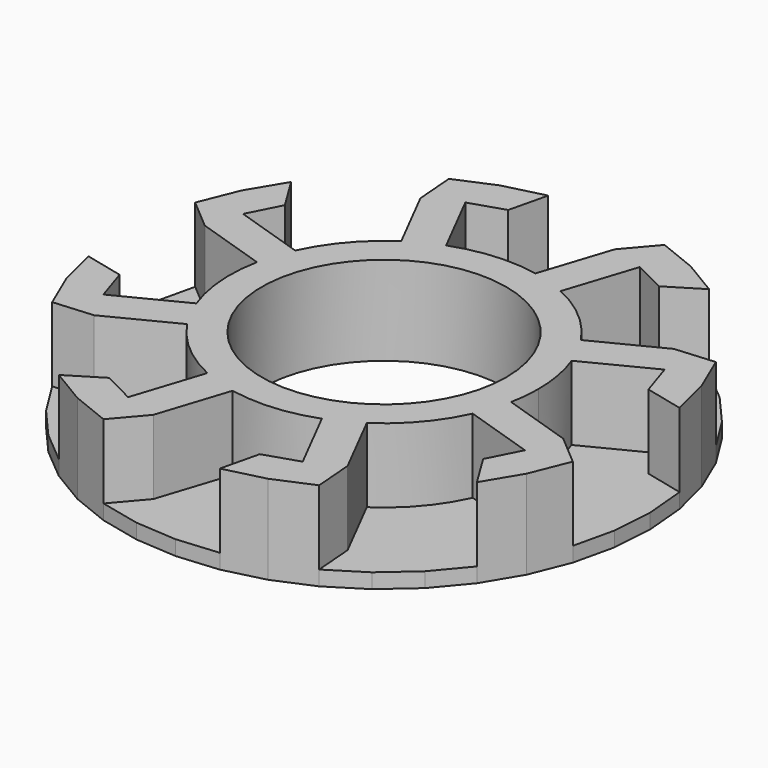
from build123d import *

# Parameters (mm, degrees)
F0_R      = 16.5
F17_DEPTH = 12
F18_DEPTH = 2


with BuildPart() as f17:
    # F0 (on Top) → F17 (new body)
    with BuildSketch(Plane.XY):
        with BuildLine():
            ThreePointArc((18.917614, -8.685167), (19.797247, -6.432516), (20.409685, -4.093046))
            ThreePointArc((20.409685, -4.093046), (20.714215, -2.056585), (20.816058, 0))
            ThreePointArc((20.816058, 0), (20.489002, 3.675464), (19.518114, 7.235432))
            ThreePointArc((19.518114, 7.235432), (18.547243, 9.450292), (17.326047, 11.537605))
            ThreePointArc((17.326047, 11.537605), (13.518948, 15.828654), (8.685167, 18.917614))
            ThreePointArc((8.685167, 18.917614), (6.432516, 19.797247), (4.093046, 20.409685))
            ThreePointArc((4.093046, 20.409685), (-1.633209, 20.751889), (-7.235432, 19.518114))
            ThreePointArc((-7.235432, 19.518114), (-9.450292, 18.547243), (-11.537605, 17.326047))
            ThreePointArc((-11.537605, 17.326047), (-15.828654, 13.518948), (-18.917614, 8.685167))
            ThreePointArc((-18.917614, 8.685167), (-19.797247, 6.432516), (-20.409685, 4.093046))
            ThreePointArc((-20.409685, 4.093046), (-20.751889, -1.633209), (-19.518114, -7.235432))
            ThreePointArc((-19.518114, -7.235432), (-18.547243, -9.450292), (-17.326047, -11.537605))
            ThreePointArc((-17.326047, -11.537605), (-13.518948, -15.828654), (-8.685167, -18.917614))
            ThreePointArc((-8.685167, -18.917614), (-6.432516, -19.797247), (-4.093046, -20.409685))
            ThreePointArc((-4.093046, -20.409685), (1.633209, -20.751889), (7.235432, -19.518114))
            ThreePointArc((7.235432, -19.518114), (9.450292, -18.547243), (11.537605, -17.326047))
            ThreePointArc((11.537605, -17.326047), (15.828654, -13.518948), (18.917614, -8.685167))
        make_face()
        Circle(F0_R, mode=Mode.SUBTRACT)
        with BuildLine():
            ThreePointArc((4.093046, 20.409685), (6.432516, 19.797247), (8.685167, 18.917614))
            Line((8.685167, 18.917614), (11.775337, 28.428179))
            Line((11.775337, 28.428179), (7.183216, 29.92025))
            Line((7.183216, 29.92025), (4.093046, 20.409685))
        make_face()
        Polygon((11.775337, 28.428179), (16.07751, 26.236113), (20.629834, 29.030011), (15.834552, 31.89982), (10.649371, 33.98415), (7.183216, 29.92025), align=None)
        Polygon((-16.07751, 26.236113), (-11.775337, 28.428179), (-7.183216, 29.92025), (-5.939822, 35.114813), (-11.35986, 33.753298), (-16.50018, 31.560666), align=None)
        with BuildLine():
            ThreePointArc((-11.537605, 17.326047), (-9.450292, 18.547243), (-7.235432, 19.518114))
            Line((-7.235432, 19.518114), (-11.775337, 28.428179))
            Line((-11.775337, 28.428179), (-16.07751, 26.236113))
            Line((-16.07751, 26.236113), (-11.537605, 17.326047))
        make_face()
        Polygon((-29.92025, 7.183216), (-28.428179, 11.775337), (-26.236113, 16.07751), (-29.030011, 20.629834), (-31.89982, 15.834552), (-33.98415, 10.649371), align=None)
        with BuildLine():
            ThreePointArc((-20.409685, 4.093046), (-19.797247, 6.432516), (-18.917614, 8.685167))
            Line((-18.917614, 8.685167), (-28.428179, 11.775337))
            Line((-28.428179, 11.775337), (-29.92025, 7.183216))
            Line((-29.92025, 7.183216), (-20.409685, 4.093046))
        make_face()
        Polygon((-31.560666, -16.50018), (-26.236113, -16.07751), (-28.428179, -11.775337), (-29.92025, -7.183216), (-35.114813, -5.939822), (-33.753298, -11.35986), align=None)
        with BuildLine():
            Line((-26.236113, -16.07751), (-17.326047, -11.537605))
            ThreePointArc((-17.326047, -11.537605), (-18.547243, -9.450292), (-19.518114, -7.235432))
            Line((-19.518114, -7.235432), (-28.428179, -11.775337))
            Line((-28.428179, -11.775337), (-26.236113, -16.07751))
        make_face()
        Polygon((-10.649371, -33.98415), (-7.183216, -29.92025), (-11.775337, -28.428179), (-16.07751, -26.236113), (-20.629834, -29.030011), (-15.834552, -31.89982), align=None)
        with BuildLine():
            Line((-7.183216, -29.92025), (-4.093046, -20.409685))
            ThreePointArc((-4.093046, -20.409685), (-6.432516, -19.797247), (-8.685167, -18.917614))
            Line((-8.685167, -18.917614), (-11.775337, -28.428179))
            Line((-11.775337, -28.428179), (-7.183216, -29.92025))
        make_face()
        Polygon((16.50018, -31.560666), (16.07751, -26.236113), (11.775337, -28.428179), (7.183216, -29.92025), (5.939822, -35.114813), (11.35986, -33.753298), align=None)
        with BuildLine():
            Line((16.07751, -26.236113), (11.537605, -17.326047))
            ThreePointArc((11.537605, -17.326047), (9.450292, -18.547243), (7.235432, -19.518114))
            Line((7.235432, -19.518114), (11.775337, -28.428179))
            Line((11.775337, -28.428179), (16.07751, -26.236113))
        make_face()
        Polygon((33.98415, -10.649371), (29.92025, -7.183216), (28.428179, -11.775337), (26.236113, -16.07751), (29.030011, -20.629834), (31.89982, -15.834552), align=None)
        with BuildLine():
            Line((28.428179, -11.775337), (29.92025, -7.183216))
            Line((29.92025, -7.183216), (20.409685, -4.093046))
            ThreePointArc((20.409685, -4.093046), (19.797247, -6.432516), (18.917614, -8.685167))
            Line((18.917614, -8.685167), (28.428179, -11.775337))
        make_face()
        Polygon((28.428179, 11.775337), (29.92025, 7.183216), (35.114813, 5.939822), (33.753298, 11.35986), (31.560666, 16.50018), (26.236113, 16.07751), align=None)
        with BuildLine():
            Line((19.518114, 7.235432), (28.428179, 11.775337))
            Line((28.428179, 11.775337), (26.236113, 16.07751))
            Line((26.236113, 16.07751), (17.326047, 11.537605))
            ThreePointArc((17.326047, 11.537605), (18.547243, 9.450292), (19.518114, 7.235432))
        make_face()
    extrude(amount=F17_DEPTH)

    # F9 (on face) + F10 (on face) + F11 (on face) + F7 (on face) + F8 (on face) + F1 (on face) + F2 (on face) + F16 (on face) + F15 (on face) + F3 (on face) + F14 (on face) + F4 (on face) + F13 (on face) + F5 (on face) + F12 (on face) + F6 (on face) → F18 (join)
    with BuildSketch(Plane.XY):
        Polygon((-23.398026, 19.983802), (-19.983802, 23.398026), (-16.07751, 26.236113), (-16.50018, 31.560666), (-21.234212, 28.590905), (-25.445386, 24.917141), (-29.030011, 20.629834), (-26.236113, 16.07751), align=None)
    with BuildSketch(Plane.XY):
        Polygon((-2.414221, 30.675584), (2.414221, 30.675584), (7.183216, 29.92025), (10.649371, 33.98415), (5.201968, 35.231677), (-0.373526, 35.611684), (-5.939822, 35.114813), (-7.183216, 29.92025), align=None)
    with BuildSketch(Plane.XY):
        Polygon((19.983802, 23.398026), (23.398026, 19.983802), (26.236113, 16.07751), (31.560666, 16.50018), (28.590905, 21.234212), (24.917141, 25.445386), (20.629834, 29.030011), (16.07751, 26.236113), align=None)
    with BuildSketch(Plane.XY):
        with BuildLine():
            ThreePointArc((8.685167, 18.917614), (13.518948, 15.828654), (17.326047, 11.537605))
            Line((17.326047, 11.537605), (26.236113, 16.07751))
            Line((26.236113, 16.07751), (23.398026, 19.983802))
            Line((23.398026, 19.983802), (19.983802, 23.398026))
            Line((19.983802, 23.398026), (16.07751, 26.236113))
            Line((16.07751, 26.236113), (11.775337, 28.428179))
            Line((11.775337, 28.428179), (8.685167, 18.917614))
        make_face()
    with BuildSketch(Plane.XY):
        with BuildLine():
            Line((-11.775337, 28.428179), (-7.235432, 19.518114))
            ThreePointArc((-7.235432, 19.518114), (-1.633209, 20.751889), (4.093046, 20.409685))
            Line((4.093046, 20.409685), (7.183216, 29.92025))
            Line((7.183216, 29.92025), (2.414221, 30.675584))
            Line((2.414221, 30.675584), (-2.414221, 30.675584))
            Line((-2.414221, 30.675584), (-7.183216, 29.92025))
            Line((-7.183216, 29.92025), (-11.775337, 28.428179))
        make_face()
    with BuildSketch(Plane.XY):
        with BuildLine():
            Line((-28.428179, 11.775337), (-18.917614, 8.685167))
            ThreePointArc((-18.917614, 8.685167), (-15.828654, 13.518948), (-11.537605, 17.326047))
            Line((-11.537605, 17.326047), (-16.07751, 26.236113))
            Line((-16.07751, 26.236113), (-19.983802, 23.398026))
            Line((-19.983802, 23.398026), (-23.398026, 19.983802))
            Line((-23.398026, 19.983802), (-26.236113, 16.07751))
            Line((-26.236113, 16.07751), (-28.428179, 11.775337))
        make_face()
    with BuildSketch(Plane.XY):
        with BuildLine():
            Line((-29.92025, -7.183216), (-28.428179, -11.775337))
            Line((-28.428179, -11.775337), (-19.518114, -7.235432))
            ThreePointArc((-19.518114, -7.235432), (-20.751889, -1.633209), (-20.409685, 4.093046))
            Line((-20.409685, 4.093046), (-29.92025, 7.183216))
            Line((-29.92025, 7.183216), (-30.675584, 2.414221))
            Line((-30.675584, 2.414221), (-30.675584, -2.414221))
            Line((-30.675584, -2.414221), (-29.92025, -7.183216))
        make_face()
    with BuildSketch(Plane.XY):
        Polygon((-30.675584, -2.414221), (-30.675584, 2.414221), (-29.92025, 7.183216), (-33.98415, 10.649371), (-35.231677, 5.201968), (-35.611684, -0.373526), (-35.114813, -5.939822), (-29.92025, -7.183216), align=None)
    with BuildSketch(Plane.XY):
        Polygon((-19.983802, -23.398026), (-23.398026, -19.983802), (-26.236113, -16.07751), (-31.560666, -16.50018), (-28.590905, -21.234212), (-24.917141, -25.445386), (-20.629834, -29.030011), (-16.07751, -26.236113), align=None)
    with BuildSketch(Plane.XY):
        with BuildLine():
            Line((-16.07751, -26.236113), (-11.775337, -28.428179))
            Line((-11.775337, -28.428179), (-8.685167, -18.917614))
            ThreePointArc((-8.685167, -18.917614), (-13.518948, -15.828654), (-17.326047, -11.537605))
            Line((-17.326047, -11.537605), (-26.236113, -16.07751))
            Line((-26.236113, -16.07751), (-23.398026, -19.983802))
            Line((-23.398026, -19.983802), (-19.983802, -23.398026))
            Line((-19.983802, -23.398026), (-16.07751, -26.236113))
        make_face()
    with BuildSketch(Plane.XY):
        Polygon((2.414221, -30.675584), (-2.414221, -30.675584), (-7.183216, -29.92025), (-10.649371, -33.98415), (-5.201968, -35.231677), (0.373526, -35.611684), (5.939822, -35.114813), (7.183216, -29.92025), align=None)
    with BuildSketch(Plane.XY):
        with BuildLine():
            Line((7.183216, -29.92025), (11.775337, -28.428179))
            Line((11.775337, -28.428179), (7.235432, -19.518114))
            ThreePointArc((7.235432, -19.518114), (1.633209, -20.751889), (-4.093046, -20.409685))
            Line((-4.093046, -20.409685), (-7.183216, -29.92025))
            Line((-7.183216, -29.92025), (-2.414221, -30.675584))
            Line((-2.414221, -30.675584), (2.414221, -30.675584))
            Line((2.414221, -30.675584), (7.183216, -29.92025))
        make_face()
    with BuildSketch(Plane.XY):
        Polygon((25.445386, -24.917141), (29.030011, -20.629834), (26.236113, -16.07751), (23.398026, -19.983802), (19.983802, -23.398026), (16.07751, -26.236113), (16.50018, -31.560666), (21.234212, -28.590905), align=None)
    with BuildSketch(Plane.XY):
        with BuildLine():
            Line((23.398026, -19.983802), (26.236113, -16.07751))
            Line((26.236113, -16.07751), (28.428179, -11.775337))
            Line((28.428179, -11.775337), (18.917614, -8.685167))
            ThreePointArc((18.917614, -8.685167), (15.828654, -13.518948), (11.537605, -17.326047))
            Line((11.537605, -17.326047), (16.07751, -26.236113))
            Line((16.07751, -26.236113), (19.983802, -23.398026))
            Line((19.983802, -23.398026), (23.398026, -19.983802))
        make_face()
    with BuildSketch(Plane.XY):
        Polygon((35.114813, 5.939822), (29.92025, 7.183216), (30.675584, 2.414221), (30.675584, -2.414221), (29.92025, -7.183216), (33.98415, -10.649371), (35.231677, -5.201968), (35.611684, 0.373526), align=None)
    with BuildSketch(Plane.XY):
        with BuildLine():
            Line((29.92025, -7.183216), (30.675584, -2.414221))
            Line((30.675584, -2.414221), (30.675584, 2.414221))
            Line((30.675584, 2.414221), (29.92025, 7.183216))
            Line((29.92025, 7.183216), (28.428179, 11.775337))
            Line((28.428179, 11.775337), (19.518114, 7.235432))
            ThreePointArc((19.518114, 7.235432), (20.489002, 3.675464), (20.816058, 0))
            ThreePointArc((20.816058, 0), (20.714215, -2.056585), (20.409685, -4.093046))
            Line((20.409685, -4.093046), (29.92025, -7.183216))
        make_face()
    extrude(amount=F18_DEPTH)


solid = f17.part
